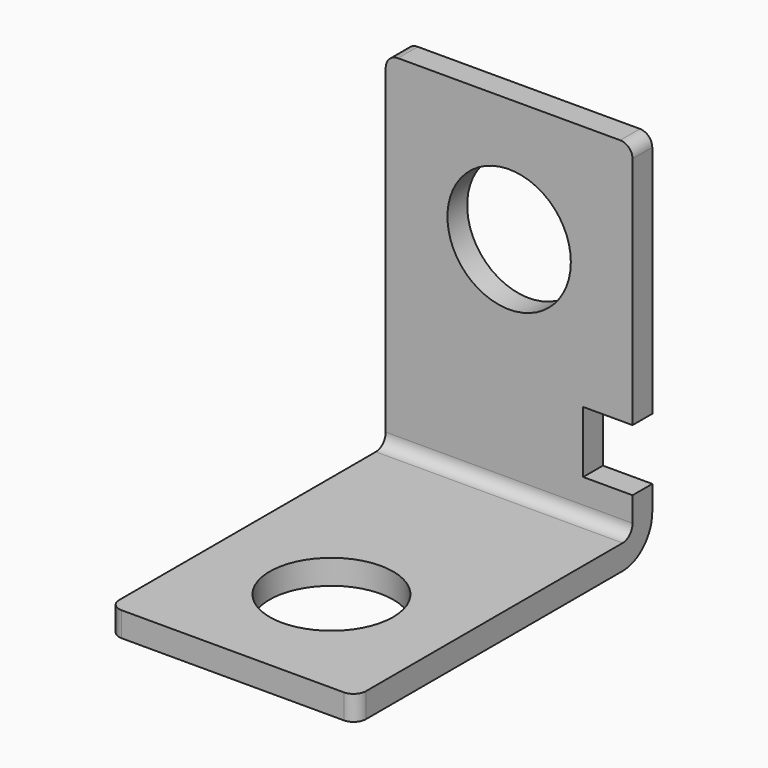
from build123d import *

# Parameters (mm, degrees)
F1_DEPTH = 20
F2_R     = 5
F2_W     = 4
F2_H     = 5
F3_DEPTH = 2.001
F4_R     = 5
F5_DEPTH = 2.001
F6_R     = 1


with BuildPart() as f1:
    # F0 (on Right) → F1 (new body)
    with BuildSketch(Plane.YZ):
        with BuildLine():
            Line((0, 2), (0, 0))
            Line((0, 0), (27, 0))
            ThreePointArc((27, 0), (29.12132, 0.87868), (30, 3))
            Line((30, 3), (30, 30))
            Line((30, 30), (28, 30))
            Line((28, 30), (28, 3))
            ThreePointArc((28, 3), (27.707107, 2.292893), (27, 2))
            Line((27, 2), (0, 2))
        make_face()
    extrude(amount=-F1_DEPTH)

    # F2 (on face) → F3 (cut, through all)
    with BuildSketch(Plane.XZ.offset(-28)):
        with Locations((-10, 20)):
            Circle(F2_R)
        with Locations((-2, 7.5)):
            Rectangle(F2_W, F2_H)
    extrude(amount=-F3_DEPTH, mode=Mode.SUBTRACT)

    # F4 (on face) → F5 (cut, through all)
    with BuildSketch(Plane.XY.offset(2)):
        with Locations((-10, 10)):
            Circle(F4_R)
    extrude(amount=-F5_DEPTH, mode=Mode.SUBTRACT)

    # F6
    f6_edges = [f1.edges().sort_by_distance(p)[0] for p in [
        (0, 0, 1),
        (-20, 0, 1),
        (0, 29, 30),
        (-20, 29, 30),
    ]]
    fillet(f6_edges, radius=F6_R)


solid = f1.part
